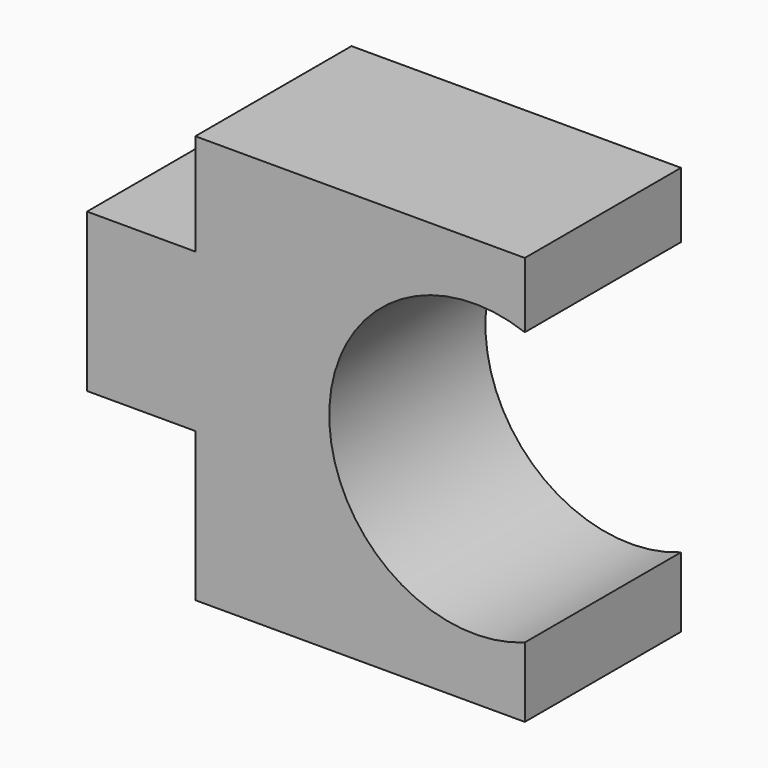
from build123d import *

# Parameters (mm, degrees)
F1_DEPTH = 25.4


with BuildPart() as f1:
    # F0 (on Front) → F1 (new body)
    with BuildSketch(Plane.XZ):
        with BuildLine():
            Line((-23.929596, -11.450972), (-23.929596, -30.829543))
            Line((-23.929596, -30.829543), (18.938147, -30.829543))
            Line((18.938147, -30.829543), (18.938147, -21.727486))
            ThreePointArc((18.938147, -21.727486), (-6.506098, -3.963798), (18.938147, 13.79989))
            Line((18.938147, 13.79989), (18.938147, 22.314714))
            Line((18.938147, 22.314714), (-23.929596, 22.314714))
            Line((-23.929596, 22.314714), (-23.929596, 9.102055))
            Line((-23.929596, 9.102055), (-38.023103, 9.102055))
            Line((-38.023103, 9.102055), (-38.023103, -11.450972))
            Line((-38.023103, -11.450972), (-23.929596, -11.450972))
        make_face()
    extrude(amount=F1_DEPTH)


solid = f1.part
